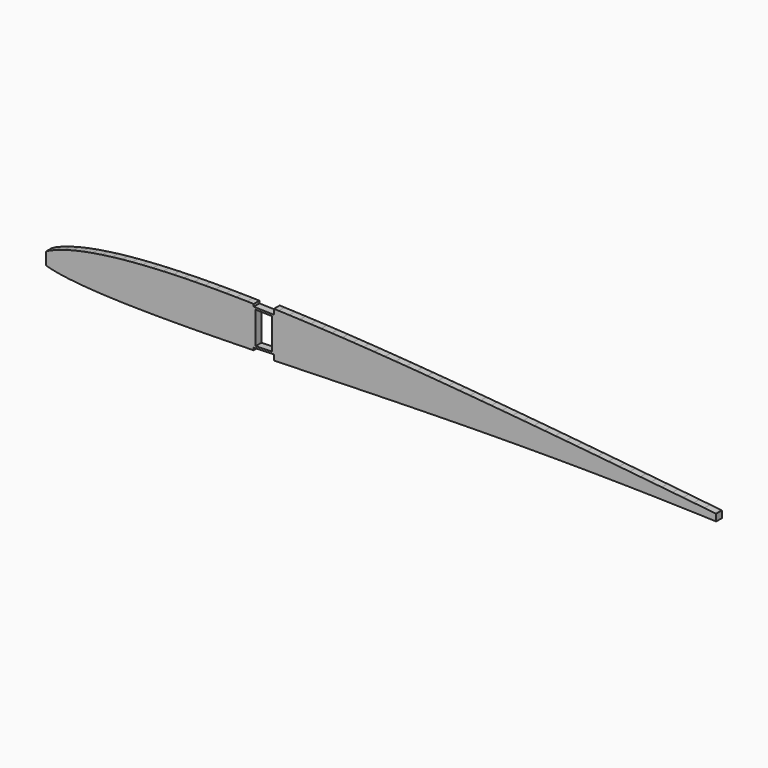
from build123d import *

# Parameters (mm, degrees)
F1_DEPTH = 1.5


with BuildPart() as f1:
    # F0 (on Front) → F1 (new body)
    with BuildSketch(Plane.XZ):
        Polygon((142, 0.744528), (142, 2.164764), (141.756827, 2.19059), (139.541293, 2.423936), (137.324294, 2.656031), (135.106149, 2.886867), (132.88798, 3.116584), (130.669795, 3.345501), (128.451744, 3.573135), (126.234164, 3.7998), (124.017352, 4.02517), (121.800354, 4.249262), (119.583974, 4.471743), (117.368021, 4.692455), (115.151901, 4.911409), (112.936198, 5.128596), (110.720621, 5.343539), (108.505003, 5.556403), (106.289822, 5.767177), (104.074761, 5.975389), (101.859485, 6.181045), (99.644312, 6.384138), (97.429734, 6.584339), (95.215088, 6.78166), (93.000228, 6.975786), (90.786095, 7.166536), (88.57206, 7.353924), (86.358261, 7.537466), (84.144403, 7.717329), (81.931096, 7.892861), (79.718029, 8.064226), (77.505344, 8.230784), (75.293052, 8.392693), (73.081283, 8.54899), (70.869743, 8.700002), (68.658555, 8.845086), (66.448529, 8.983746), (64.238854, 9.115998), (62.029837, 9.241035), (59.821802, 9.358852), (57.614246, 9.468338), (55.40733, 9.56965), (53.202479, 9.66212), (50.999186, 9.744478), (50, 9.777187), (50, 9.176866), (50, 8.676866), (45.8, 8.796636), (45.8, 9.295403), (44.38743, 9.326976), (42.195028, 9.363203), (40.005971, 9.385624), (37.820648, 9.393445), (35.638372, 9.38508), (33.46094, 9.359864), (31.288811, 9.315884), (29.121512, 9.25124), (26.961716, 9.164939), (24.808649, 9.054142), (22.665116, 8.917385), (20.535486, 8.751442), (18.420289, 8.553003), (16.32601, 8.318523), (14.255856, 8.043134), (12.220146, 7.721582), (10.227654, 7.347338), (8.29762, 6.913726), (6.459442, 6.415771), (4.772328, 5.855327), (3.339039, 5.261104), (2.6, 4.874359), (2.6, 2.281296), (3.54864, 2.027292), (5.160734, 1.706243), (7.035389, 1.430159), (9.042427, 1.206093), (11.110739, 1.029503), (13.219002, 0.891719), (15.354544, 0.785013), (17.509289, 0.703408), (19.677506, 0.643066), (21.855885, 0.599925), (24.040762, 0.572311), (26.231517, 0.557847), (28.42657, 0.55545), (30.626296, 0.563519), (32.830683, 0.580297), (35.036932, 0.6052), (37.246467, 0.636923), (39.459078, 0.67483), (41.673422, 0.717829), (43.890675, 0.765579), (45.8, 0.809465), (45.8, 1.309141), (50, 1.41249), (50, 0.91249), (50, 0.312298), (50.571337, 0.326729), (52.79658, 0.384609), (55.0228, 0.44359), (57.249999, 0.503512), (59.478643, 0.563725), (61.708406, 0.623917), (63.938004, 0.683632), (66.16679, 0.742883), (68.394113, 0.800722), (70.621092, 0.857607), (72.847394, 0.912586), (75.072228, 0.965833), (77.295889, 1.016542), (79.520133, 1.064679), (81.743687, 1.10995), (83.96622, 1.15236), (86.18805, 1.191263), (88.410448, 1.226794), (90.631991, 1.258821), (92.852476, 1.286708), (95.073211, 1.31059), (97.294022, 1.330149), (99.514112, 1.345721), (101.733314, 1.35667), (103.953387, 1.363282), (106.172898, 1.365423), (108.391513, 1.362941), (110.610191, 1.355657), (112.829109, 1.343727), (115.047447, 1.327167), (117.265542, 1.305652), (119.484324, 1.279322), (121.702527, 1.248363), (123.920164, 1.212293), (126.138363, 1.171732), (128.356467, 1.126372), (130.5735, 1.076232), (132.791416, 1.021273), (135.009404, 0.961833), (137.226808, 0.897602), (139.445556, 0.829025), (141.662807, 0.756316), align=None)
        Polygon((46.2, 1.719105), (46.2, 8.385067), (49.6, 8.28811), (49.6, 1.802768), align=None, mode=Mode.SUBTRACT)
    extrude(amount=F1_DEPTH)


solid = f1.part
